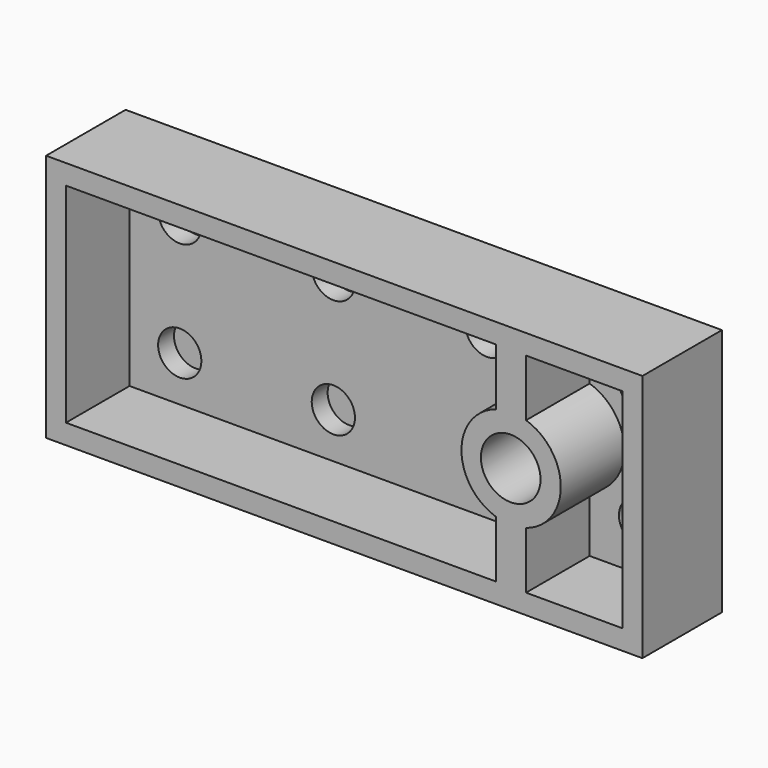
from build123d import *

# Parameters (mm, degrees)
SKETCH_W     = 60
SKETCH_H     = 25
PAD_DEPTH    = 10
SKETCH001_R  = 4.176273
PAD001_DEPTH = 2
FILLET_R     = 1
THICKNESS_T  = -2
SKETCH002_R  = 5
SKETCH002_W  = 3.002202
SKETCH002_H  = 21.001648
PAD002_DEPTH = 8
SKETCH003_R  = 3
POCKET_DEPTH = 8


with BuildPart() as part:
    # Sketch (on XZ_Plane of Origin) → Pad (new body)
    with BuildSketch(Plane.XZ):
        Rectangle(SKETCH_W, SKETCH_H)
    extrude(amount=-PAD_DEPTH)

    # Sketch001 (on Face6 of Pad) → Pad001 (join)
    with BuildSketch(Plane(origin=(0, 10, 0), x_dir=(-1, 0, 0), z_dir=(0, 1, 0))):
        with Locations((-23.414856, 5.941234)):
            Circle(SKETCH001_R)
        with Locations((-23.414856, -5.941234)):
            Circle(SKETCH001_R)
        with Locations((-7.959265, 5.941234)):
            Circle(SKETCH001_R)
        with Locations((-7.959265, -5.941234)):
            Circle(SKETCH001_R)
        with Locations((7.496326, 5.941234)):
            Circle(SKETCH001_R)
        with Locations((7.496326, -5.941234)):
            Circle(SKETCH001_R)
        with Locations((22.951918, 5.941234)):
            Circle(SKETCH001_R)
        with Locations((22.951918, -5.941234)):
            Circle(SKETCH001_R)
    extrude(amount=PAD001_DEPTH)

    # Fillet
    fillet_edges = [part.edges().sort_by_distance(p)[0] for p in [
        (27.591129, 12, -5.941234),
        (27.591129, 12, 5.941234),
        (12.135538, 12, 5.941234),
        (12.135538, 12, -5.941234),
        (-3.320053, 12, -5.941234),
        (-3.320053, 12, 5.941234),
        (-18.775645, 12, 5.941234),
        (-18.775645, 12, -5.941234),
    ]]
    fillet(fillet_edges, radius=FILLET_R)

    # Thickness
    thickness_openings = [part.faces().sort_by_distance(p)[0] for p in [
        (0, 0, 0),
    ]]
    offset(amount=THICKNESS_T, openings=thickness_openings, kind=Kind.INTERSECTION)

    # Sketch002 (on XZ_Plane of Origin) → Pad002 (join)
    with BuildSketch(Plane.XZ):
        with Locations((16.790788, 0)):
            Circle(SKETCH002_R)
        with Locations((16.790788, 0)):
            Rectangle(SKETCH002_W, SKETCH002_H)
    extrude(amount=-PAD002_DEPTH)

    # Sketch003 (on XZ_Plane of Origin) → Pocket (cut)
    with BuildSketch(Plane.XZ):
        with Locations((16.7491, 0)):
            Circle(SKETCH003_R)
    extrude(amount=-POCKET_DEPTH, mode=Mode.SUBTRACT)


solid = part.part
